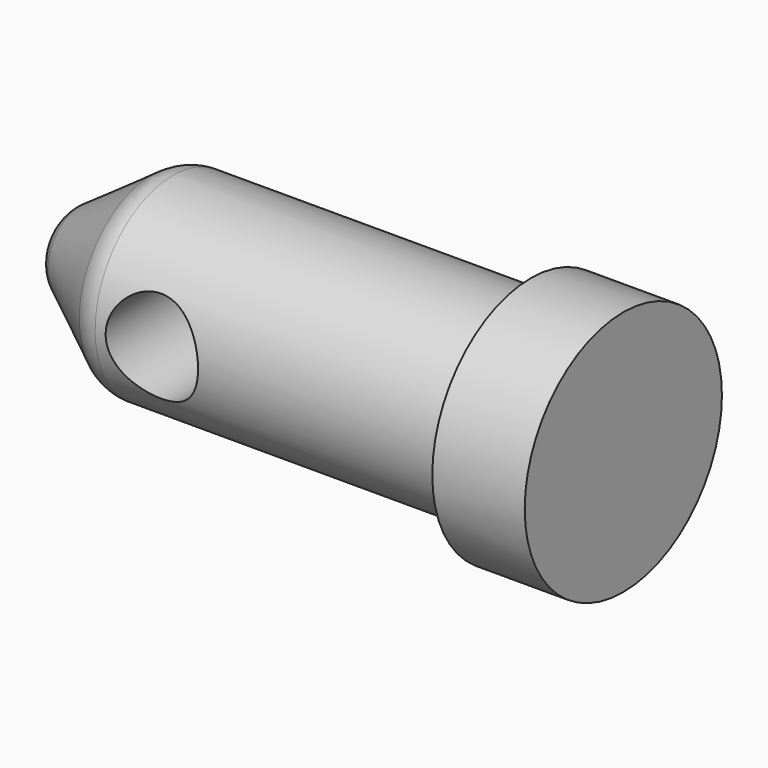
from build123d import *

# Parameters (mm, degrees)
F2_R     = 1.2
F3_R     = 1.5
F4_DEPTH = 4.001
F5_R     = 1.5
F6_DEPTH = 4.001


with BuildPart() as f1:
    # F0 (on Front) → F1 (revolve)
    with BuildSketch(Plane.XZ):
        Polygon((4.282442, 3.15), (-7.717558, 3.15), (-10.853604, 0.954117), (-10.853604, 0), (7.282442, 0), (7.282442, 4), (4.282442, 4), align=None)
    revolve(axis=Axis((2.625406, 0, 0), (1, 0, 0)))

    # F2
    f2_edges = [f1.edges().sort_by_distance(p)[0] for p in [
        (-10.853604, 0, -0.954117),
        (-7.717558, 0, -3.15),
    ]]
    fillet(f2_edges, radius=F2_R)

    # F3 (on Front) → F4 (cut, through all)
    with BuildSketch(Plane.XZ):
        with Locations((-5.5, 0)):
            Circle(F3_R)
    extrude(amount=F4_DEPTH, mode=Mode.SUBTRACT)

    # F5 (on Front) → F6 (cut, through all)
    with BuildSketch(Plane.XZ):
        with Locations((-5.5, 0)):
            Circle(F5_R)
    extrude(amount=-F6_DEPTH, mode=Mode.SUBTRACT)


solid = f1.part
